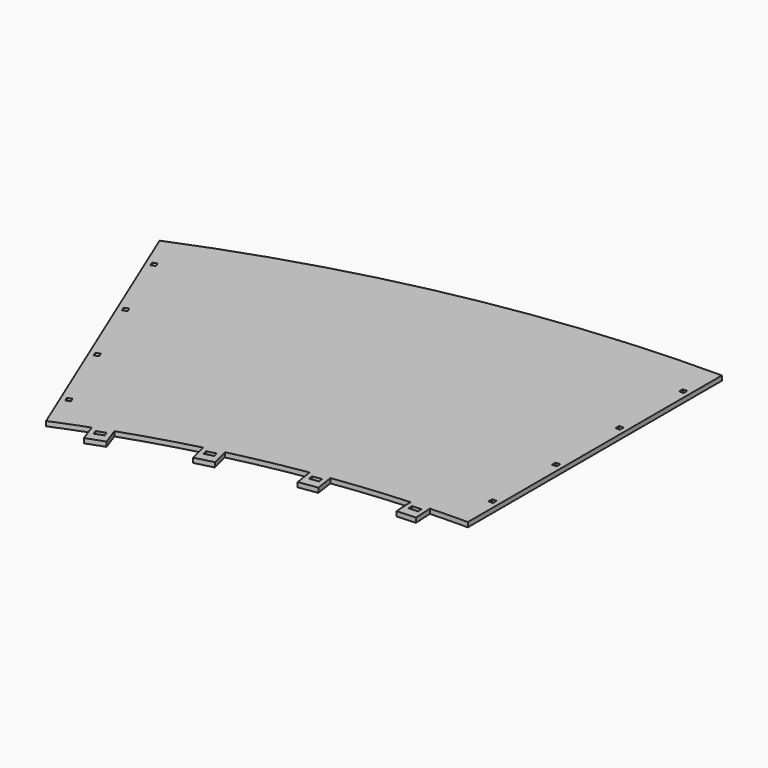
from build123d import *

# Parameters (mm, degrees)
F1_DEPTH = 3
F2_W     = 2.87808
F2_H     = 3
F2_W_2   = 0.06096
F3_DEPTH = 3.001


with BuildPart() as f1:
    # F0 (on Top) → F1 (new body)
    with BuildSketch(Plane.XY):
        with BuildLine():
            Line((0, 610.7938), (0, 814.4002))
            ThreePointArc((0, 814.4002), (-158.581862972, 798.8112909169), (-311.092710136, 752.6413564642))
            Line((-311.092710136, 752.6413564642), (-233.3171069657, 564.4751488911))
            ThreePointArc((-233.3171069657, 564.4751488911), (-222.21778397, 568.9361322731), (-211.0332265418, 573.1788930289))
            Line((-211.0332265418, 573.1788930289), (-211.0431366506, 573.2066473717))
            Line((-211.0431366506, 573.2066473717), (-205.3925469131, 575.2242760793))
            Line((-205.3925469131, 575.2242760793), (-199.7419556033, 577.2419053483))
            Line((-199.7419556033, 577.2419053483), (-199.7320454946, 577.2141510055))
            ThreePointArc((-199.7320454946, 577.2141510055), (-176.9750657056, 584.592928658), (-153.9465878827, 591.0748803643))
            Line((-153.9465878827, 591.0748803643), (-153.9537352346, 591.1034710825))
            Line((-153.9537352346, 591.1034710825), (-148.1328657869, 592.5586217348))
            Line((-148.1328657869, 592.5586217348), (-142.3119938407, 594.0137730116))
            Line((-142.3119938407, 594.0137730116), (-142.3048464889, 593.9851822935))
            ThreePointArc((-142.3048464889, 593.9851822935), (-118.9351607425, 599.1022397368), (-95.3830161725, 603.3002124517))
            Line((-95.3830161725, 603.3002124517), (-95.3873321972, 603.3293652515))
            Line((-95.3873321972, 603.3293652515), (-89.4520324924, 604.2080767429))
            Line((-89.4520324924, 604.2080767429), (-83.5167190162, 605.0867902733))
            Line((-83.5167190162, 605.0867902733), (-83.5124029915, 605.0576374735))
            ThreePointArc((-83.5124029915, 605.0576374735), (-59.7542154208, 607.8638826727), (-35.9043587106, 609.7376018781))
            Line((-35.9043587105, 609.7376018781), (-35.905802001, 609.7670370733))
            Line((-35.905802001, 609.7670370733), (-29.9129956796, 610.0608812306))
            Line((-29.9129956796, 610.0608812306), (-23.9202013429, 610.3547248004))
            Line((-23.9202013429, 610.3547248004), (-23.9187580524, 610.3252896052))
            ThreePointArc((-23.9187580524, 610.3252896052), (-11.9616730515, 610.6766611688), (0, 610.7938))
        make_face()
        with BuildLine():
            Line((-23.3325136158, 598.3691241423), (-23.9187580524, 610.3252896052))
            ThreePointArc((-23.9187580524, 610.3252896052), (-26.9162015413, 610.2004459299), (-29.9129956796, 610.0608812306))
            ThreePointArc((-29.9129956796, 610.0608812306), (-32.9090741607, 609.9065985512), (-35.9043587106, 609.7376018781))
            Line((-35.9043587105, 609.7376018781), (-35.3181142739, 597.7814364152))
            Line((-35.3181142739, 597.7814364152), (-23.3325136158, 598.3691241423))
        make_face()
        Polygon((-32.7015930533, 606.9205442942), (-26.830566427, 607.2084172504), (-26.6836444952, 604.2120170859), (-32.5546711216, 603.9241441296), align=None, mode=Mode.SUBTRACT)
        with BuildLine():
            ThreePointArc((-29.9129956796, 610.0608812306), (-26.9162015413, 610.2004459299), (-23.9187580524, 610.3252896052))
            Line((-23.9187580524, 610.3252896052), (-23.9202013429, 610.3547248004))
            Line((-23.9202013429, 610.3547248004), (-29.9129956796, 610.0608812306))
        make_face()
        with BuildLine():
            ThreePointArc((-35.9043587106, 609.7376018781), (-32.9090741607, 609.9065985512), (-29.9129956796, 610.0608812306))
            Line((-29.9129956796, 610.0608812306), (-35.905802001, 609.7670370733))
            Line((-35.905802001, 609.7670370733), (-35.9043587105, 609.7376018781))
        make_face()
        with BuildLine():
            Line((-211.0431366506, 573.2066473717), (-211.0332265418, 573.1788930289))
            ThreePointArc((-211.0332265418, 573.1788930289), (-208.2153983194, 574.2085109271), (-205.3925469131, 575.2242760793))
            Line((-205.3925469131, 575.2242760793), (-211.0431366506, 573.2066473717))
        make_face()
        with BuildLine():
            ThreePointArc((-205.3925469131, 575.2242760793), (-208.2153983194, 574.2085109271), (-211.0332265418, 573.1788930289))
            Line((-211.0332265418, 573.1788930289), (-207.0078786739, 561.9054663245))
            Line((-207.0078786739, 561.9054663245), (-195.7066976267, 565.9407243011))
            Line((-195.7066976267, 565.9407243011), (-199.7320454946, 577.2141510055))
            ThreePointArc((-199.7320454946, 577.2141510055), (-202.5647396363, 576.2261642572), (-205.3925469131, 575.2242760793))
        make_face()
        Polygon((-207.1516168949, 571.4106657146), (-201.6158463707, 573.3872964819), (-200.6070318766, 570.5620012201), (-206.1428024007, 568.5853704528), align=None, mode=Mode.SUBTRACT)
        with BuildLine():
            Line((-199.7419556033, 577.2419053483), (-205.3925469131, 575.2242760793))
            ThreePointArc((-205.3925469131, 575.2242760793), (-202.5647396363, 576.2261642572), (-199.7320454946, 577.2141510055))
            Line((-199.7320454946, 577.2141510055), (-199.7419556033, 577.2419053483))
        make_face()
        with BuildLine():
            Line((-81.7592939944, 593.2161770923), (-83.5124029915, 605.0576374735))
            ThreePointArc((-83.5124029915, 605.0576374735), (-86.4832609464, 604.6401505809), (-89.4520324924, 604.2080767429))
            ThreePointArc((-89.4520324924, 604.2080767429), (-92.4186391273, 603.7614274366), (-95.3830161725, 603.3002124517))
            Line((-95.3830161725, 603.3002124517), (-93.6299071754, 591.4587520705))
            Line((-93.6299071754, 591.4587520705), (-81.7592939944, 593.2161770923))
        make_face()
        Polygon((-91.9200199316, 600.8099959308), (-86.105318771, 601.6708530035), (-85.6659625155, 598.7031997082), (-91.4806636761, 597.8423426355), align=None, mode=Mode.SUBTRACT)
        with BuildLine():
            ThreePointArc((-89.4520324924, 604.2080767429), (-86.4832609464, 604.6401505809), (-83.5124029915, 605.0576374735))
            Line((-83.5124029915, 605.0576374735), (-83.5167190162, 605.0867902733))
            Line((-83.5167190162, 605.0867902733), (-89.4520324924, 604.2080767429))
        make_face()
        with BuildLine():
            ThreePointArc((-95.3830161725, 603.3002124517), (-92.4186391273, 603.7614274366), (-89.4520324924, 604.2080767429))
            Line((-89.4520324924, 604.2080767429), (-95.3873321972, 603.3293652515))
            Line((-95.3873321972, 603.3293652515), (-95.3830161725, 603.3002124517))
        make_face()
        with BuildLine():
            Line((-153.9537352346, 591.1034710825), (-153.9465878827, 591.0748803643))
            ThreePointArc((-153.9465878827, 591.0748803643), (-151.0415487687, 591.8238899064), (-148.1328657869, 592.5586217348))
            Line((-148.1328657869, 592.5586217348), (-153.9537352346, 591.1034710825))
        make_face()
        with BuildLine():
            ThreePointArc((-148.1328657869, 592.5586217348), (-151.0415487687, 591.8238899064), (-153.9465878827, 591.0748803643))
            Line((-153.9465878827, 591.0748803643), (-151.0434333054, 579.4617296886))
            Line((-151.0434333054, 579.4617296886), (-139.4016919116, 582.3720316178))
            Line((-139.4016919116, 582.3720316178), (-142.3048464889, 593.9851822935))
            ThreePointArc((-142.3048464889, 593.9851822935), (-145.2206078584, 593.2790584301), (-148.1328657869, 592.5586217348))
        make_face()
        Polygon((-150.2565843576, 588.9353955501), (-144.5539937532, 590.3609778471), (-143.8264182709, 587.4505424986), (-149.5290088753, 586.0249602016), align=None, mode=Mode.SUBTRACT)
        with BuildLine():
            Line((-142.3119938407, 594.0137730116), (-148.1328657869, 592.5586217348))
            ThreePointArc((-148.1328657869, 592.5586217348), (-145.2206078584, 593.2790584301), (-142.3048464889, 593.9851822935))
            Line((-142.3048464889, 593.9851822935), (-142.3119938407, 594.0137730116))
        make_face()
    extrude(amount=F1_DEPTH)

    # F2 (on face) → F3 (cut, through all)
    with BuildSketch(Plane.XY.offset(3)):
        with Locations((-4.5, 636.2446)):
            Rectangle(F2_W, F2_H)
        with Locations((-4.5, 687.1462)):
            Rectangle(F2_W, F2_H)
        with Locations((-4.5, 738.0478)):
            Rectangle(F2_W, F2_H)
        with Locations((-4.5, 788.9494)):
            Rectangle(F2_W, F2_H)
        with Locations((4.5, 687.1462)):
            Rectangle(F2_W, F2_H)
        with Locations((3.03048, 687.1462)):
            Rectangle(F2_W_2, F2_H)
        with Locations((5.96952, 687.1462)):
            Rectangle(F2_W_2, F2_H)
        with Locations((3.03048, 788.9494)):
            Rectangle(F2_W_2, F2_H)
        with Locations((4.5, 788.9494)):
            Rectangle(F2_W, F2_H)
        with Locations((5.96952, 788.9494)):
            Rectangle(F2_W_2, F2_H)
        with Locations((3.03048, 636.2446)):
            Rectangle(F2_W_2, F2_H)
        with Locations((4.5, 636.2446)):
            Rectangle(F2_W, F2_H)
        with Locations((5.96952, 636.2446)):
            Rectangle(F2_W_2, F2_H)
        with Locations((3.03048, 738.0478)):
            Rectangle(F2_W_2, F2_H)
        with Locations((4.5, 738.0478)):
            Rectangle(F2_W, F2_H)
        with Locations((5.96952, 738.0478)):
            Rectangle(F2_W_2, F2_H)
        Polygon((-260.2834437092, 637.5696963512), (-259.1374737912, 634.7971969468), (-259.0811366033, 634.8204830556), (-260.2271065213, 637.5929824599), align=None)
        Polygon((-260.2271065213, 637.5929824599), (-259.0811366033, 634.8204830556), (-256.4213115748, 635.9198807561), (-257.5672814928, 638.6923801604), align=None)
        Polygon((-257.5672814928, 638.6923801604), (-256.4213115748, 635.9198807561), (-256.3649743869, 635.9431668648), (-257.5109443049, 638.7156662692), align=None)
        Polygon((-278.5250373959, 681.8620349488), (-279.6710073139, 684.6345343532), (-279.7273445018, 684.6112482444), (-278.5813745838, 681.8387488401), align=None)
        Polygon((-277.0111822853, 685.7339320537), (-279.6710073139, 684.6345343532), (-278.5250373959, 681.8620349488), (-275.8652123674, 682.9614326494), align=None)
        Polygon((-276.9548450974, 685.7572181624), (-277.0111822853, 685.7339320537), (-275.8652123674, 682.9614326494), (-275.8088751795, 682.9847187581), align=None)
        Polygon((-299.1712452944, 731.6528001377), (-298.0252753764, 728.8803007334), (-297.9689381885, 728.9035868421), (-299.1149081065, 731.6760862465), align=None)
        Polygon((-299.1149081065, 731.6760862465), (-297.9689381885, 728.9035868421), (-295.3091131599, 730.0029845426), (-296.4550830779, 732.775483947), align=None)
        Polygon((-296.4550830779, 732.775483947), (-295.3091131599, 730.0029845426), (-295.252775972, 730.0262706514), (-296.39874589, 732.7987700557), align=None)
        Polygon((-239.6935729986, 587.7556450535), (-239.6372358107, 587.7789311623), (-240.7832057287, 590.5514305666), (-240.8395429166, 590.5281444579), align=None)
        Polygon((-240.7832057287, 590.5514305666), (-239.6372358107, 587.7789311623), (-236.9774107822, 588.8783288628), (-238.1233807002, 591.6508282671), align=None)
        Polygon((-238.1233807002, 591.6508282671), (-236.9774107822, 588.8783288628), (-236.9210735943, 588.9016149715), (-238.0670435123, 591.6741143759), align=None)
    extrude(amount=-F3_DEPTH, mode=Mode.SUBTRACT)


solid = f1.part
